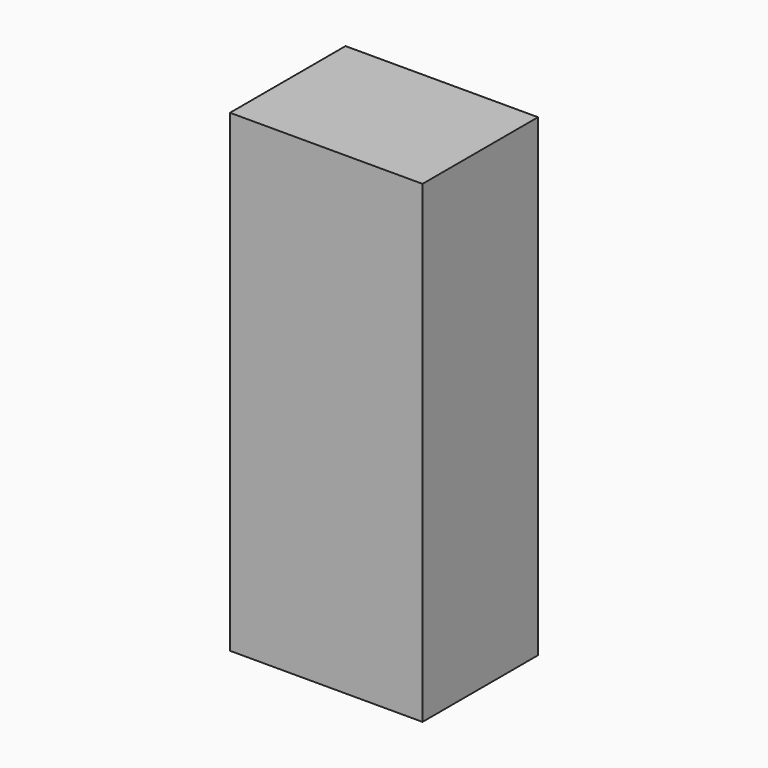
from build123d import *

# Parameters (mm, degrees)
SKETCH_W  = 101.6
SKETCH_H  = 76.2
PAD_DEPTH = 250


with BuildPart() as part:
    # Sketch → Pad (new body)
    with BuildSketch(Plane.XY):
        Rectangle(SKETCH_W, SKETCH_H)
    extrude(amount=PAD_DEPTH)


solid = part.part
